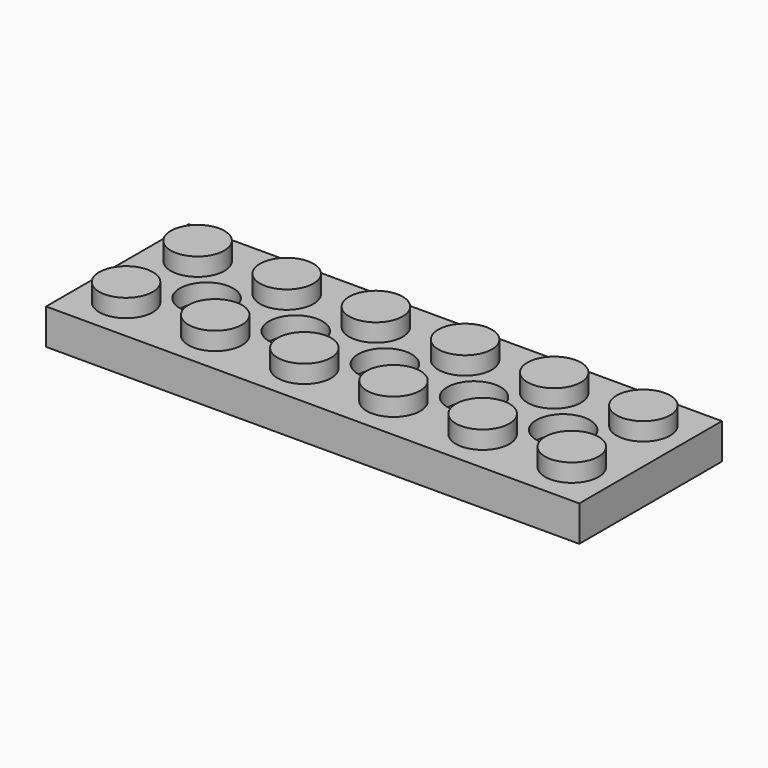
from build123d import *

# Parameters (mm, degrees)
F0_W     = 47.5488
F0_H     = 15.9004
F0_R     = 2.3876
F1_DEPTH = 3.175
F2_DEPTH = 4.7752
F3_T     = -1.6002
F4_R     = 2.3876
F5_DEPTH = 6.5786


with BuildPart() as f1:
    # F0 (on Top) → F1 (new body)
    with BuildSketch(Plane.XY):
        with Locations((17.6647863418, -0.3007892519)):
            Rectangle(F0_W, F0_H)
        with Locations((-2.1472136582, -4.2885892519)):
            Circle(F0_R, mode=Mode.SUBTRACT)
        with Locations((5.8029863418, -4.2885892519)):
            Circle(F0_R, mode=Mode.SUBTRACT)
        with Locations((13.7531863418, -4.2885892519)):
            Circle(F0_R, mode=Mode.SUBTRACT)
        with Locations((21.7033863418, -4.2885892519)):
            Circle(F0_R, mode=Mode.SUBTRACT)
        with Locations((29.6535863418, -4.2885892519)):
            Circle(F0_R, mode=Mode.SUBTRACT)
        with Locations((37.6037863418, -4.2885892519)):
            Circle(F0_R, mode=Mode.SUBTRACT)
        with Locations((-2.1472136582, 3.6870107481)):
            Circle(F0_R, mode=Mode.SUBTRACT)
        with Locations((5.8029863418, 3.6870107481)):
            Circle(F0_R, mode=Mode.SUBTRACT)
        with Locations((13.7531863418, 3.6870107481)):
            Circle(F0_R, mode=Mode.SUBTRACT)
        with Locations((21.7033863418, 3.6870107481)):
            Circle(F0_R, mode=Mode.SUBTRACT)
        with Locations((29.6535863418, 3.6870107481)):
            Circle(F0_R, mode=Mode.SUBTRACT)
        with Locations((37.6037863418, 3.6870107481)):
            Circle(F0_R, mode=Mode.SUBTRACT)
    extrude(amount=F1_DEPTH)

    # F0 (on Top) → F2 (join)
    with BuildSketch(Plane.XY):
        with Locations((-2.1472136582, 3.6870107481)):
            Circle(F0_R)
        with Locations((5.8029863418, 3.6870107481)):
            Circle(F0_R)
        with Locations((13.7531863418, 3.6870107481)):
            Circle(F0_R)
        with Locations((21.7033863418, 3.6870107481)):
            Circle(F0_R)
        with Locations((29.6535863418, 3.6870107481)):
            Circle(F0_R)
        with Locations((37.6037863418, 3.6870107481)):
            Circle(F0_R)
        with Locations((37.6037863418, -4.2885892519)):
            Circle(F0_R)
        with Locations((29.6535863418, -4.2885892519)):
            Circle(F0_R)
        with Locations((21.7033863418, -4.2885892519)):
            Circle(F0_R)
        with Locations((13.7531863418, -4.2885892519)):
            Circle(F0_R)
        with Locations((5.8029863418, -4.2885892519)):
            Circle(F0_R)
        with Locations((-2.1472136582, -4.2885892519)):
            Circle(F0_R)
    extrude(amount=F2_DEPTH)

    # F3
    f3_openings = [f1.faces().sort_by_distance(p)[0] for p in [
        (17.664786, -0.300789, 0),
    ]]
    offset(amount=F3_T, openings=f3_openings, kind=Kind.INTERSECTION)

    # F4 (on face) → F5 (cut)
    with BuildSketch(Plane.XY):
        with Locations((33.6413863418, -0.3007892519)):
            Circle(F4_R)
        with Locations((25.6911863418, -0.3007892519)):
            Circle(F4_R)
        with Locations((9.7907863418, -0.3007892519)):
            Circle(F4_R)
        with Locations((17.7409863418, -0.3007892519)):
            Circle(F4_R)
        with Locations((1.8405863418, -0.3007892519)):
            Circle(F4_R)
    extrude(amount=F5_DEPTH, mode=Mode.SUBTRACT)


solid = f1.part
